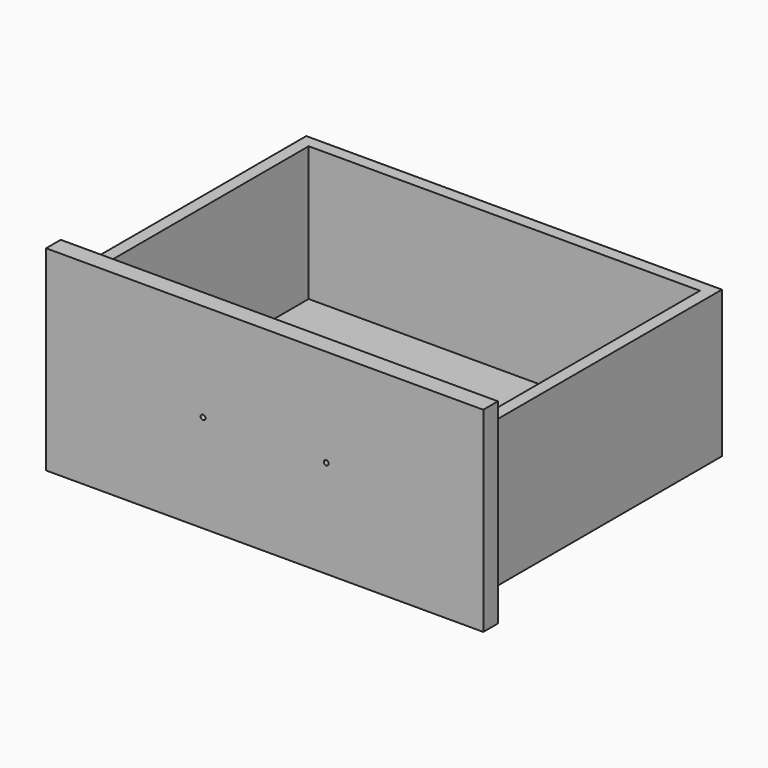
from build123d import *

# Parameters (mm, degrees)
F0_W     = 431.8
F0_H     = 304.8
F0_W_2   = 406.4
F0_H_2   = 279.4
F1_DEPTH = 152.4
F2_W     = 279.4
F2_H     = 6.35
F3_DEPTH = 406.4
F4_W     = 454.152
F4_H     = 203.2
F5_DEPTH = 19.05
F7_D     = 5.0038
F7_DEPTH = 31.75


with BuildPart() as f1:
    # F0 (on Top) → F1 (new body)
    with BuildSketch(Plane.XY):
        Rectangle(F0_W, F0_H)
        Rectangle(F0_W_2, F0_H_2, mode=Mode.SUBTRACT)
    extrude(amount=F1_DEPTH)

    # F2 (on face) → F3 (join, through all)
    with BuildSketch(Plane.YZ.offset(-203.2)):
        with Locations((0, 9.525)):
            Rectangle(F2_W, F2_H)
    extrude(amount=F3_DEPTH)

    # F4 (on face) → F5 (join)
    with BuildSketch(Plane.XZ.offset(152.4)):
        with Locations((0, 76.2)):
            Rectangle(F4_W, F4_H)
    extrude(amount=F5_DEPTH)

    # F7
    with Locations(Plane.XZ.offset(171.45)):
        with Locations((-64.008, 76.2), (64.008, 76.2)):
            Hole(F7_D / 2, depth=F7_DEPTH)


solid = f1.part
